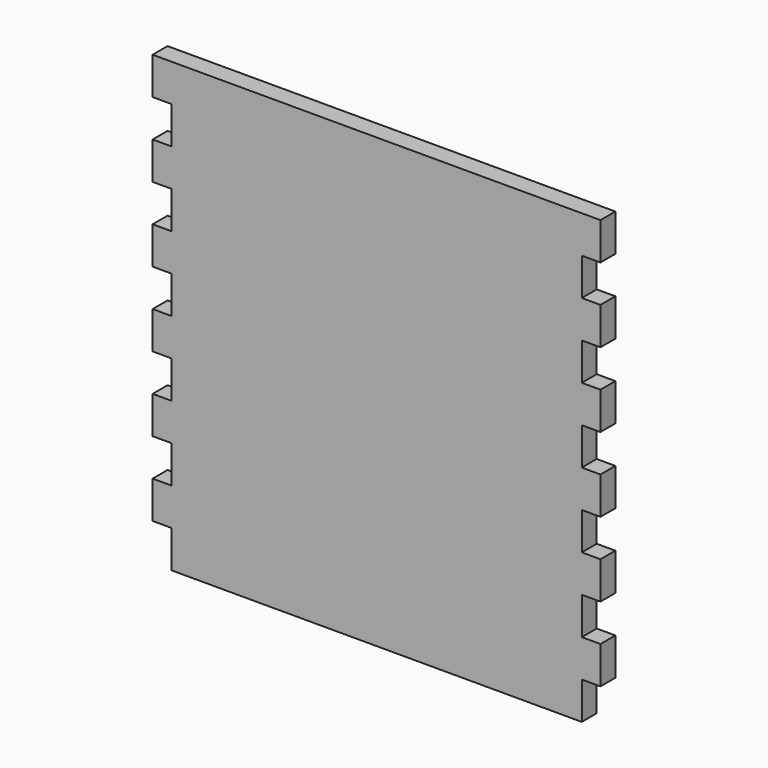
from build123d import *

# Parameters (mm, degrees)
F1_DEPTH = 3.175


with BuildPart() as f1:
    # F0 (on Front) → F1 (new body)
    with BuildSketch(Plane.XZ):
        Polygon((38.1, 38.1), (-38.1, 38.1), (-38.1, 31.75), (-34.925, 31.75), (-34.925, 25.4), (-38.1, 25.4), (-38.1, 19.05), (-34.925, 19.05), (-34.925, 12.7), (-38.1, 12.7), (-38.1, 6.35), (-34.925, 6.35), (-34.925, 0), (-38.1, 0), (-38.1, -6.35), (-34.925, -6.35), (-34.925, -12.7), (-38.1, -12.7), (-38.1, -19.05), (-34.925, -19.05), (-34.925, -25.4), (-38.1, -25.4), (-38.1, -31.75), (-34.925, -31.75), (-34.925, -38.1), (34.925, -38.1), (34.925, -31.75), (38.1, -31.75), (38.1, -25.4), (34.925, -25.4), (34.925, -19.05), (38.1, -19.05), (38.1, -12.7), (34.925, -12.7), (34.925, -6.35), (38.1, -6.35), (38.1, 0), (34.925, 0), (34.925, 6.35), (38.1, 6.35), (38.1, 12.7), (34.925, 12.7), (34.925, 19.05), (38.1, 19.05), (38.1, 25.4), (34.925, 25.4), (34.925, 31.75), (38.1, 31.75), align=None)
    extrude(amount=F1_DEPTH)


solid = f1.part
